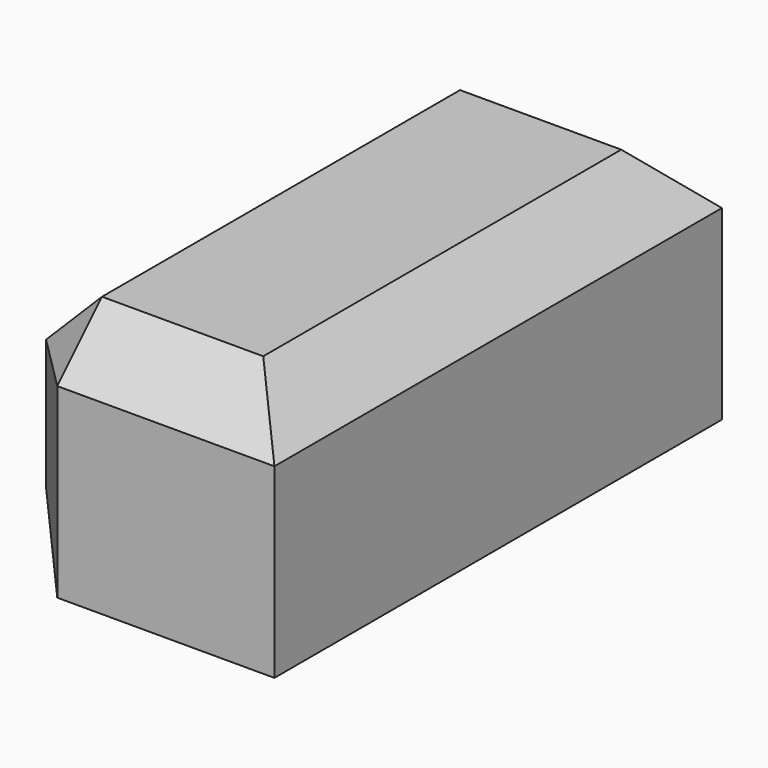
from build123d import *

# Parameters (mm, degrees)
F0_W     = 24.411026
F0_H     = 21.652587
F1_DEPTH = 50
F2_SIZE  = 5


with BuildPart() as f1:
    # F0 (on Front) → F1 (new body)
    with BuildSketch(Plane.XZ):
        with Locations((-51.131187, 54.019387)):
            Rectangle(F0_W, F0_H)
    extrude(amount=F1_DEPTH)

    # F2
    f2_edges = [f1.edges().sort_by_distance(p)[0] for p in [
        (-63.3367, -25, 64.845681),
        (-63.3367, -25, 43.193094),
        (-63.3367, 0, 54.019388),
        (-63.3367, -50, 54.019388),
        (-38.925674, -25, 64.845681),
        (-51.131187, 0, 64.845681),
        (-51.131187, -50, 64.845681),
    ]]
    chamfer(f2_edges, length=F2_SIZE)


solid = f1.part
